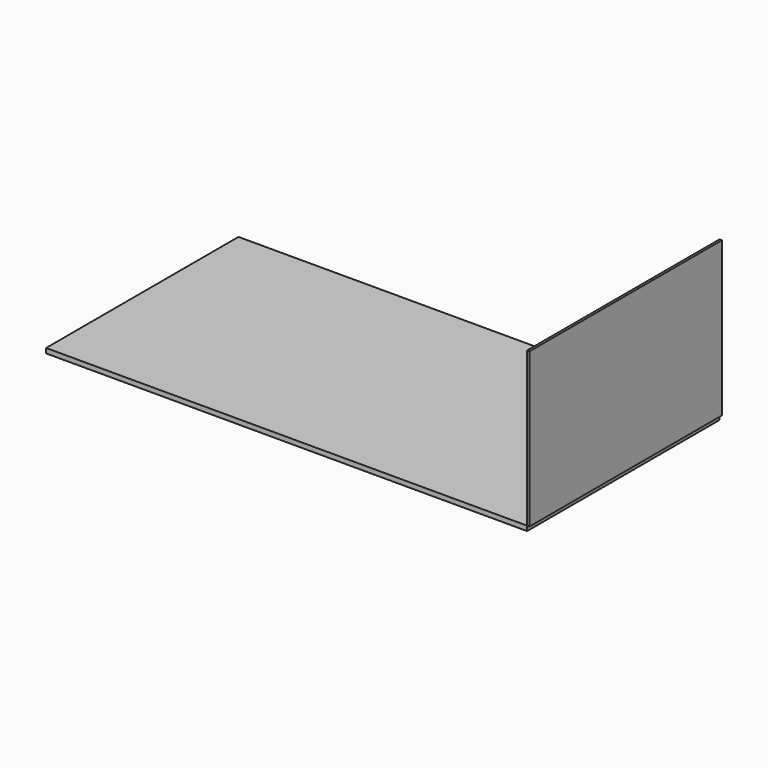
from build123d import *

# Parameters (mm, degrees)
F0_W     = 6096
F0_H     = 3048
F1_DEPTH = 60.96
F2_W     = 3048
F2_H     = 1955.003793
F3_DEPTH = 30.48


with BuildPart() as f1:
    # F0 (on Top) → F1 (new body)
    with BuildSketch(Plane.XY):
        Rectangle(F0_W, F0_H)
    extrude(amount=F1_DEPTH)


with BuildPart() as f3:
    # F2 (on face) → F3 (new body)
    with BuildSketch(Plane.YZ.offset(3048)):
        with Locations((0, 1038.461896)):
            Rectangle(F2_W, F2_H)
    extrude(amount=F3_DEPTH)


solid = Compound([f1.part, f3.part])
